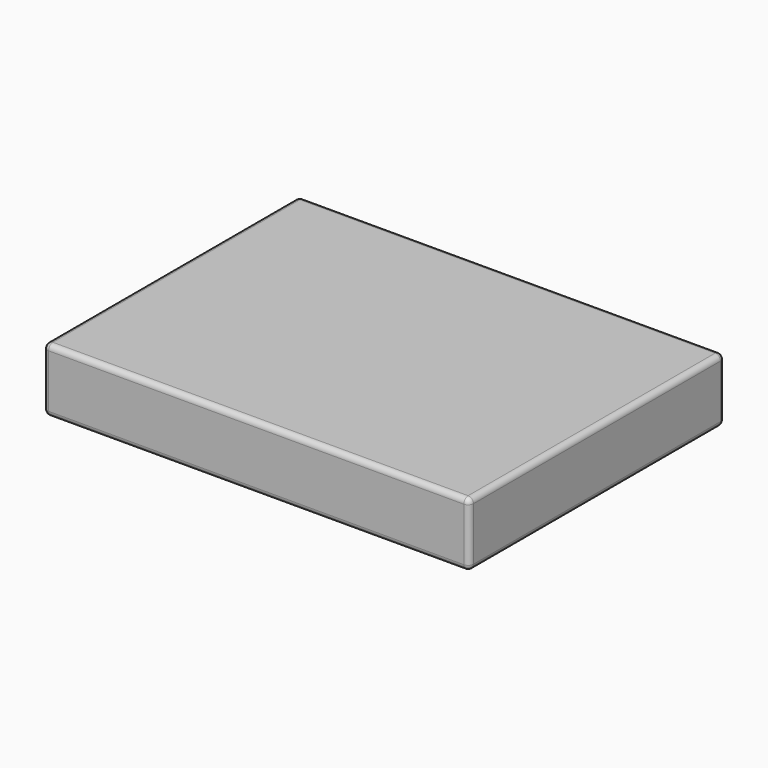
from build123d import *

# Parameters (mm, degrees)
F1_DEPTH = 304.8
F2_R     = 25.4


with BuildPart() as f1:
    # F0 (on Top) → F1 (new body)
    with BuildSketch(Plane.XY):
        with BuildLine():
            ThreePointArc((0, 25.4), (7.4394877579, 7.4394877579), (25.4, 0))
            Line((25.4, 0), (2006.6, 0))
            ThreePointArc((2006.6, 0), (2024.5605122421, 7.4394877579), (2032, 25.4))
            Line((2032, 25.4), (2032, 1498.6))
            ThreePointArc((2032, 1498.6), (2024.5605122421, 1516.5605122421), (2006.6, 1524))
            Line((2006.6, 1524), (25.4, 1524))
            ThreePointArc((25.4, 1524), (7.4394877579, 1516.5605122421), (0, 1498.6))
            Line((0, 1498.6), (0, 25.4))
        make_face()
    extrude(amount=F1_DEPTH)

    # F2
    f2_edges = [f1.edges().sort_by_distance(p)[0] for p in [
        (1016, 0, 304.8),
        (1016, 0, 0),
    ]]
    fillet(f2_edges, radius=F2_R)


solid = f1.part
